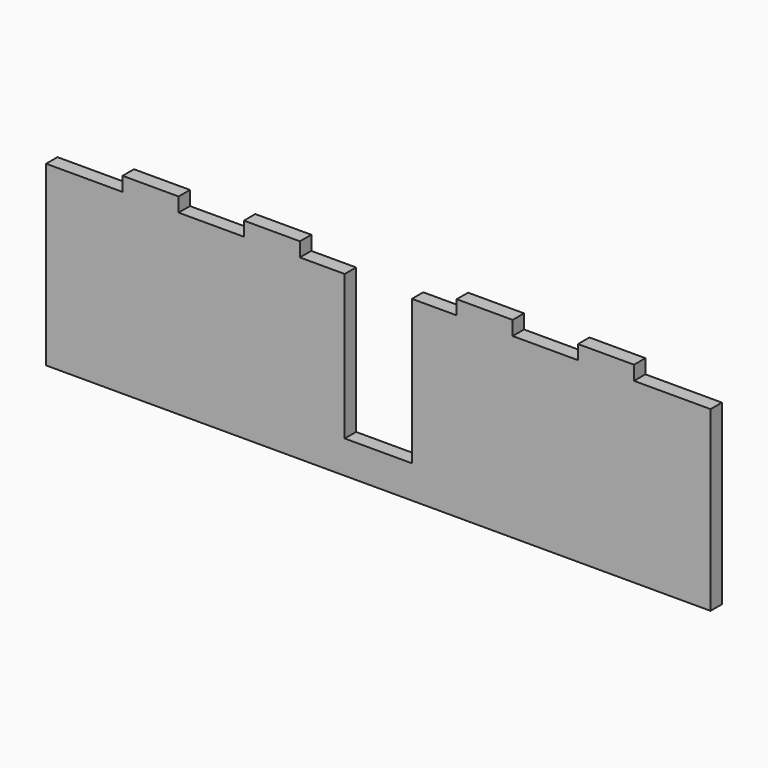
from build123d import *

# Parameters (mm, degrees)
F0_W     = 15
F0_H     = 3.81
F1_DEPTH = 3.81


with BuildPart() as f1:
    # F0 (on Front) → F1 (new body)
    with BuildSketch(Plane.XZ):
        Polygon((89, -23.79), (89, 23.79), (68.5, 23.79), (53.5, 23.79), (36, 23.79), (21, 23.79), (9, 23.79), (9, 0), (9, -15), (0, -15), (0, -23.79), align=None)
        Polygon((-89, -23.79), (0, -23.79), (0, -15), (-9, -15), (-9, 0), (-9, 23.79), (-21, 23.79), (-36, 23.79), (-53.5, 23.79), (-68.5, 23.79), (-89, 23.79), align=None)
        with Locations((-61, 25.695)):
            Rectangle(F0_W, F0_H)
        with Locations((-28.5, 25.695)):
            Rectangle(F0_W, F0_H)
        with Locations((28.5, 25.695)):
            Rectangle(F0_W, F0_H)
        with Locations((61, 25.695)):
            Rectangle(F0_W, F0_H)
    extrude(amount=F1_DEPTH)


solid = f1.part
